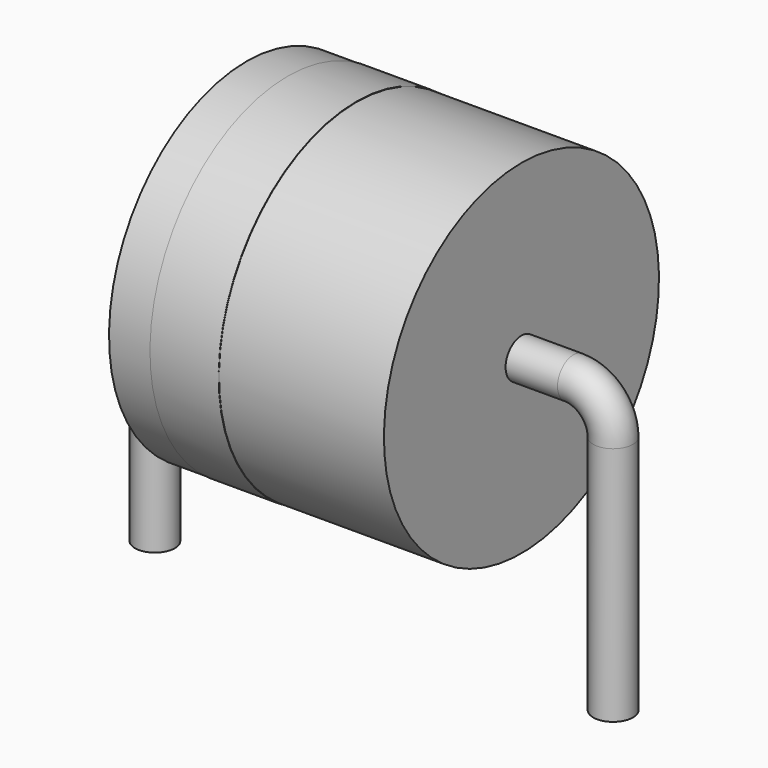
from build123d import *

# Parameters (mm, degrees)
SKETCH002_W = 7.62
SKETCH002_H = 4.765
SKETCH003_W = 1.905
SKETCH003_H = 0.02
SKETCH_R    = 0.55


with BuildPart() as revolution:
    # Sketch002 → Revolution (revolve)
    with BuildSketch(Plane.XZ):
        with Locations((6.35, 7.6475)):
            Rectangle(SKETCH002_W, SKETCH002_H)
    revolve(axis=Axis((2.54, 0, 5.265), (1, 0, 0)))


with BuildPart() as revolution001:
    # Sketch003 → Revolution001 (revolve)
    with BuildSketch(Plane.XZ):
        with Locations((4.6355, 10.03)):
            Rectangle(SKETCH003_W, SKETCH003_H)
    revolve(axis=Axis((0, 0, 5.265), (1, 0, 0)))


with BuildPart() as sweep_body:
    # Sweep: sweep along a path in Sketch001
    with BuildLine(Plane.XZ) as sweep_path:
        Line((0, -2.5), (0, 4.165))
        ThreePointArc((0, 4.165), (0.322183, 4.942817), (1.1, 5.265))
        Line((1.1, 5.265), (11.6, 5.265))
        ThreePointArc((11.6, 5.265), (12.377817, 4.942817), (12.7, 4.165))
        Line((12.7, 4.165), (12.7, -2.5))
    # Sketch → Sweep (sweep)
    with BuildSketch(Plane.XY.offset(-2)):
        Circle(SKETCH_R)
    sweep(path=sweep_path.line)


solid = Compound([revolution.part, revolution001.part, sweep_body.part])
